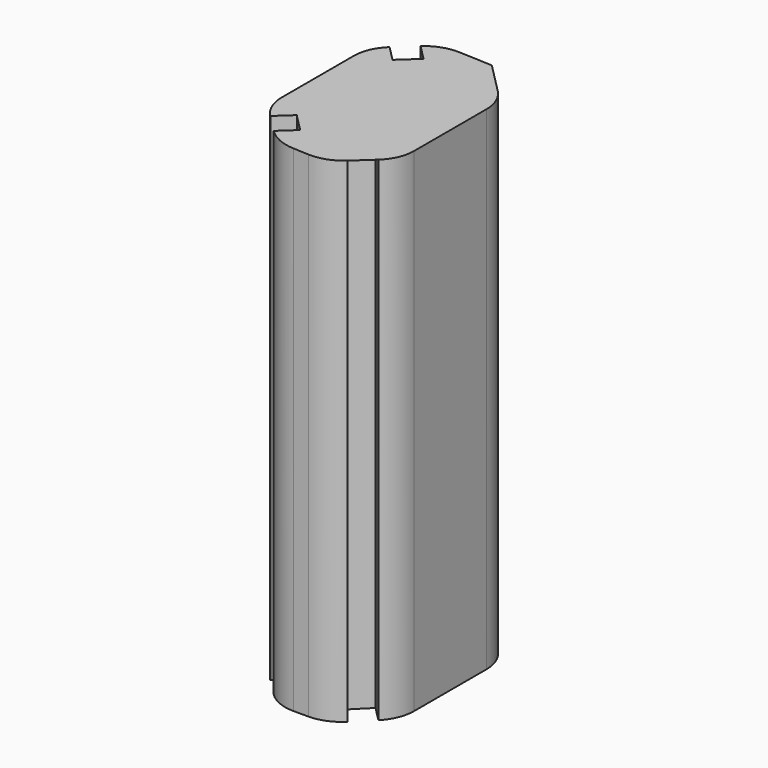
from build123d import *

# Parameters (mm, degrees)
F1_DEPTH = 25.4
F2_SIZE  = 5.08
F3_R     = 5.08
F4_DEPTH = 2.54
F5_DEPTH = 2.54
F6_DEPTH = 2.54
F7_DEPTH = 2.54


with BuildPart() as f1:
    # F0 (on Front) → F1 (new body)
    with BuildSketch(Plane.XZ):
        Polygon((-8.0913305283, -71.4852660894), (8.0913305283, -71.4852660894), (8.0913305283, -11.2523705258), (-8.0913305283, -10.7631014283), align=None)
    extrude(amount=F1_DEPTH)

    # F2
    f2_edges = [f1.edges().sort_by_distance(p)[0] for p in [
        (8.091331, -25.4, -41.368818),
        (-8.091331, -25.4, -41.124184),
        (-8.091331, 0, -41.124184),
        (8.091331, 0, -41.368818),
    ]]
    chamfer(f2_edges, length=F2_SIZE)

    # F3
    f3_edges = [f1.edges().sort_by_distance(p)[0] for p in [
        (-3.011331, 0, -41.200979),
        (-8.091331, -20.32, -41.124184),
        (-8.091331, -5.08, -41.124184),
        (8.091331, -5.08, -41.368818),
        (8.091331, -20.32, -41.368818),
        (-3.011331, -25.4, -41.200979),
        (3.011331, -25.4, -41.292024),
    ]]
    fillet(f3_edges, radius=F3_R)

    # F4 (cut): a face of the model
    f4_faces = [f1.faces().sort_by_distance(p)[0] for p in [
        (-5.5515144762, -22.859816052, -41.1625783561),
    ]]
    extrude(f4_faces, amount=-F4_DEPTH, mode=Mode.SUBTRACT)

    # F5 (cut): a face of the model
    f5_faces = [f1.faces().sort_by_distance(p)[0] for p in [
        (-5.5515144762, -2.540183948, -41.1625783561),
    ]]
    extrude(f5_faces, amount=-F5_DEPTH, mode=Mode.SUBTRACT)

    # F6 (cut): a face of the model
    f6_faces = [f1.faces().sort_by_distance(p)[0] for p in [
        (4.8068429061, -1.7955123778, -41.3191664522),
    ]]
    extrude(f6_faces, amount=-F6_DEPTH, mode=Mode.SUBTRACT)

    # F7 (cut): a face of the model
    f7_faces = [f1.faces().sort_by_distance(p)[0] for p in [
        (5.5511455564, -22.8601849718, -41.3304181334),
    ]]
    extrude(f7_faces, amount=-F7_DEPTH, mode=Mode.SUBTRACT)


solid = f1.part
